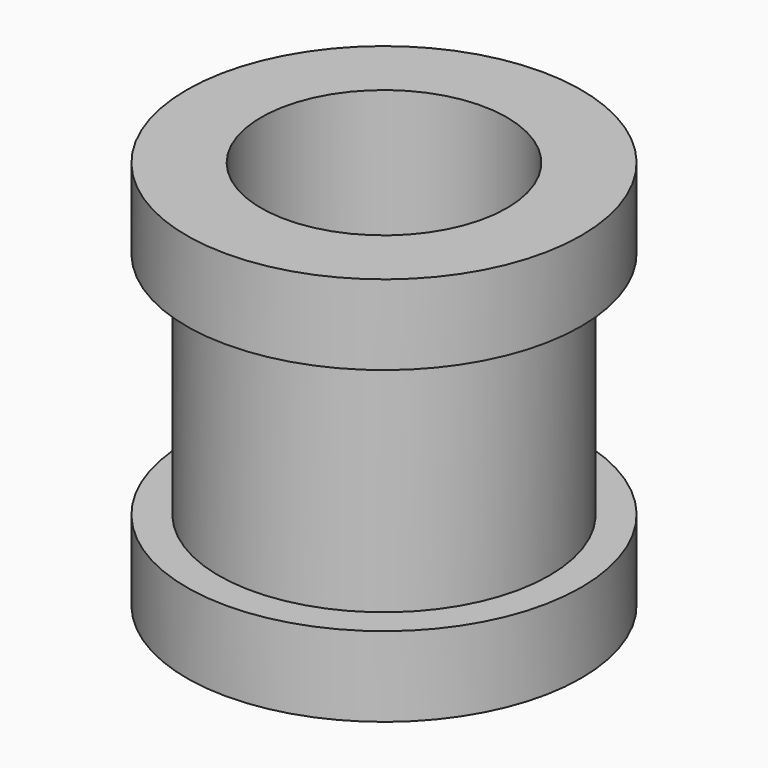
from build123d import *

# Parameters (mm, degrees)
F0_R     = 1.605
F0_R_2   = 1
F1_DEPTH = 3.17
F2_R     = 1.605
F2_R_2   = 1.345
F3_DEPTH = 2.52
F4_R     = 1.605
F4_R_2   = 1.345
F5_DEPTH = 0.65
F7_DEPTH = 0.65


with BuildPart() as f1:
    # F0 (on Top) → F1 (new body)
    with BuildSketch(Plane.XY):
        Circle(F0_R)
        Circle(F0_R_2, mode=Mode.SUBTRACT)
    extrude(amount=F1_DEPTH)

    # F2 (on face) → F3 (cut)
    with BuildSketch(Plane.XY.offset(3.17)):
        Circle(F2_R)
        Circle(F2_R_2, mode=Mode.SUBTRACT)
    extrude(amount=-F3_DEPTH, mode=Mode.SUBTRACT)

    # F4 (on face) → F7 (join)
    with BuildSketch(Plane.XY.offset(3.17)):
        Circle(F4_R)
        Circle(F4_R_2, mode=Mode.SUBTRACT)
    extrude(amount=-F7_DEPTH)


with BuildPart() as f5:
    # F4 (on face) → F5 (new body)
    with BuildSketch(Plane.XY.offset(3.17)):
        Circle(F4_R)
        Circle(F4_R_2, mode=Mode.SUBTRACT)
    extrude(amount=-F5_DEPTH)


solid = f1.part
